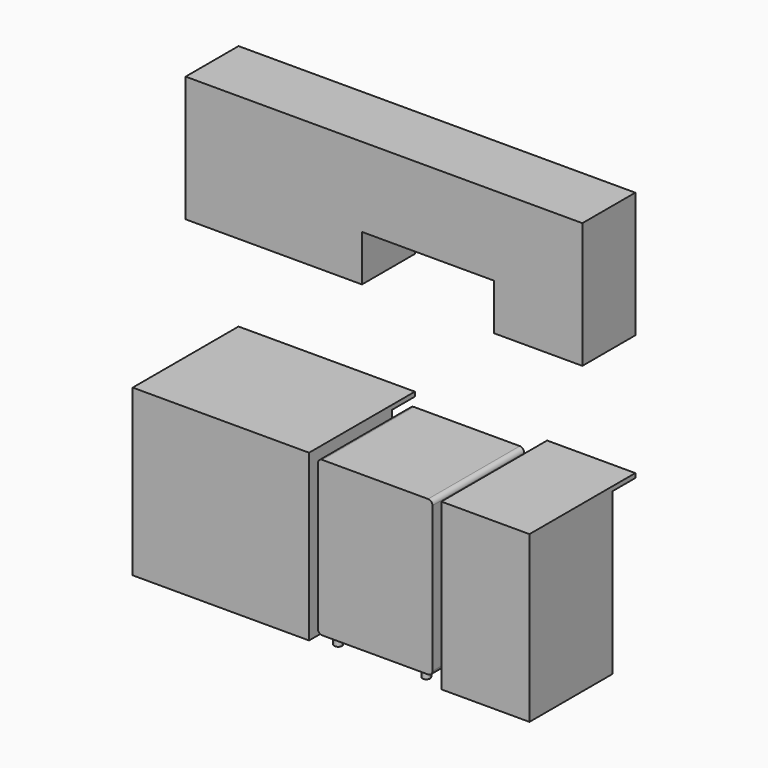
from build123d import *

# Parameters (mm, degrees)
F0_W     = 520
F0_H     = 121.0741209984
F0_H_2   = 441.2462595788
F1_DEPTH = 520
F2_DEPTH = 600
F0_W_2   = 400
F0_H_3   = 20
F0_H_4   = 730
F3_DEPTH = 470
F4_START = -300
F0_H_5   = 570
F0_W_3   = 600
F0_H_6   = 360
F4_DEPTH = 300
F6_DEPTH = 40


with BuildPart() as f1:
    # F0 (on Front) → F1 (new body)
    with BuildSketch(Plane.XZ):
        with Locations((200, -274.6542605075)):
            Rectangle(F0_W, F0_H)
        with Locations((200, -555.8144507961)):
            Rectangle(F0_W, F0_H_2)
        with BuildLine():
            Line((440, -194.1172000083), (-40, -194.1172000083))
            ThreePointArc((-40, -194.1172000083), (-54.1421356237, -199.9750643845), (-60, -214.1172000083))
            Line((-60, -214.1172000083), (460, -214.1172000083))
            ThreePointArc((460, -214.1172000083), (454.1421356237, -199.9750643845), (440, -194.1172000083))
        make_face()
        with BuildLine():
            Line((460, -776.4375805855), (-60, -776.4375805855))
            Line((-60, -776.4375805855), (-60, -875))
            ThreePointArc((-60, -875), (-54.1421356237, -889.1421356237), (-40, -895))
            Line((-40, -895), (440, -895))
            ThreePointArc((440, -895), (454.1421356237, -889.1421356237), (460, -875))
            Line((460, -875), (460, -776.4375805855))
        make_face()
    extrude(amount=-F1_DEPTH)

    # F5 (on face) → F6 (join)
    with BuildSketch(Plane(origin=(0, 0, -895), x_dir=(1, 0, 0), z_dir=(0, 0, -1))):
        with BuildLine():
            ThreePointArc((0, -57.5), (12.3743686708, -52.3743686708), (17.5, -40))
            ThreePointArc((17.5, -40), (-12.3743686708, -27.6256313292), (0, -57.5))
        make_face()
        with BuildLine():
            ThreePointArc((417.5, -40), (400, -22.5), (382.5, -40))
            ThreePointArc((382.5, -40), (387.6256313292, -52.3743686708), (400, -57.5))
            ThreePointArc((400, -57.5), (412.3743686708, -52.3743686708), (417.5, -40))
        make_face()
        with BuildLine():
            ThreePointArc((17.5, -480), (12.3743686708, -467.6256313292), (0, -462.5))
            ThreePointArc((0, -462.5), (-12.3743686708, -492.3743686708), (17.5, -480))
        make_face()
        with BuildLine():
            ThreePointArc((417.5, -480), (412.3743686708, -467.6256313292), (400, -462.5))
            ThreePointArc((400, -462.5), (387.6256313292, -467.6256313292), (382.5, -480))
            ThreePointArc((382.5, -480), (400, -497.5), (417.5, -480))
        make_face()
    extrude(amount=F6_DEPTH)


with BuildPart() as f2:
    # F0 (on Front) → F2 (new body)
    with BuildSketch(Plane.XZ):
        Polygon((-900, -185), (-900, -205), (-500, -205), (-100, -205), (-100, -185), align=None)
    extrude(amount=-F2_DEPTH)

    # F0 (on Front) → F3 (join)
    with BuildSketch(Plane.XZ):
        with Locations((-700, -570)):
            Rectangle(F0_W_2, F0_H_4)
        with Locations((-300, -570)):
            Rectangle(F0_W_2, F0_H_4)
    extrude(amount=-F3_DEPTH)


with BuildPart() as f2b:
    # F0 (on Front) → F2, piece 2 (new body)
    with BuildSketch(Plane.XZ):
        with Locations((700, -195)):
            Rectangle(F0_W_2, F0_H_3)
    extrude(amount=-F2_DEPTH)

    # F0 (on Front) → F3, piece 2 (join)
    with BuildSketch(Plane.XZ):
        with Locations((700, -570)):
            Rectangle(F0_W_2, F0_H_4)
    extrude(amount=-F3_DEPTH)


with BuildPart() as f4:
    # F0 (on Front) → F4 (new body)
    with BuildSketch(Plane.XZ.offset(F4_START)):
        with Locations((-700, 650)):
            Rectangle(F0_W_2, F0_H_5)
        Polygon((-100, 935), (-500, 935), (-500, 365), (-100, 365), (-100, 575), align=None)
        with Locations((200, 755)):
            Rectangle(F0_W_3, F0_H_6)
        Polygon((900, 935), (500, 935), (500, 575), (500, 365), (900, 365), align=None)
    extrude(amount=-F4_DEPTH)


solid = Compound([f1.part, f2.part, f2b.part, f4.part])
